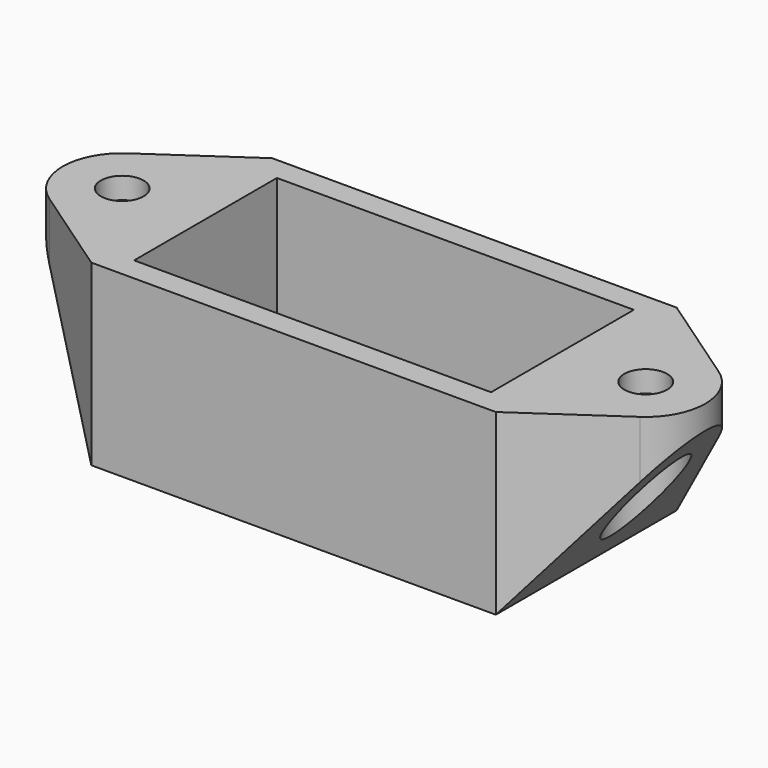
from build123d import *

# Parameters (mm, degrees)
SKETCH_R        = 4
PAD_DEPTH       = 15
SKETCH001_R     = 3
POCKET_DEPTH    = 12
SKETCH002_R     = 1.8
POCKET001_DEPTH = 1.8
SKETCH003_W     = 30
SKETCH003_H     = 15
POCKET002_DEPTH = 13
POCKET004_DEPTH = 19


with BuildPart() as part:
    # Sketch → Pad (new body)
    with BuildSketch(Plane.XY):
        with BuildLine():
            ThreePointArc((-7.83079, 13.621483), (-10, 9.5), (-7.83079, 5.378516))
            Line((0, 0), (-7.83079, 5.378516))
            Line((34, 0), (0, 0))
            Line((41.830773, 5.378541), (34, 0))
            ThreePointArc((41.830773, 5.378541), (43.999947, 9.5), (41.830774, 13.621459))
            Line((34, 19), (41.830774, 13.621459))
            Line((0, 19), (34, 19))
            Line((-7.83079, 13.621483), (0, 19))
        make_face()
        with Locations((9.5, 9.5)):
            Circle(SKETCH_R, mode=Mode.SUBTRACT)
        with Locations((24.5, 9.5)):
            Circle(SKETCH_R, mode=Mode.SUBTRACT)
    extrude(amount=PAD_DEPTH)

    # Sketch001 → Pocket (cut)
    with BuildSketch(Plane(origin=(0, 0, 0), x_dir=(1, 0, 0), z_dir=(0, 0, -1))):
        with Locations((-5, -9.5)):
            Circle(SKETCH001_R)
        with Locations((39, -9.5)):
            Circle(SKETCH001_R)
    extrude(amount=-POCKET_DEPTH, mode=Mode.SUBTRACT)

    # Sketch002 → Pocket001 (cut)
    with BuildSketch(Plane.XY.offset(15)):
        with Locations((-5, 9.5)):
            Circle(SKETCH002_R)
        with Locations((39, 9.5)):
            Circle(SKETCH002_R)
    extrude(amount=-POCKET001_DEPTH, mode=Mode.SUBTRACT)

    # Sketch003 → Pocket002 (cut)
    with BuildSketch(Plane.XY.offset(15)):
        with Locations((17, 9.5)):
            Rectangle(SKETCH003_W, SKETCH003_H)
    extrude(amount=-POCKET002_DEPTH, mode=Mode.SUBTRACT)

    # Sketch004 → Pocket004 (cut)
    with BuildSketch(Plane.XZ):
        Polygon((-11, 13), (-11, -2), (45, -2), (45, 13), (44, 13), (34, 0), (0, 0), (-10, 13), align=None)
    extrude(amount=-POCKET004_DEPTH, mode=Mode.SUBTRACT)


solid = part.part
